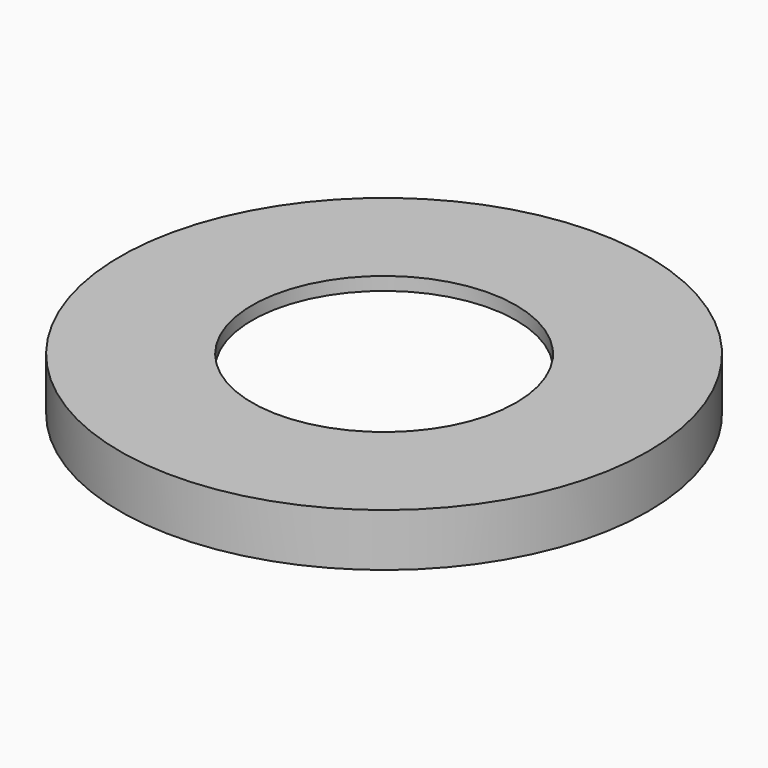
from build123d import *

# Parameters (mm, degrees)
F0_R     = 50
F1_DEPTH = 10
F2_T     = -2.5
F3_R     = 25
F4_DEPTH = 25


with BuildPart() as f1:
    # F0 (on Top) → F1 (new body)
    with BuildSketch(Plane.XY):
        Circle(F0_R)
    extrude(amount=F1_DEPTH)

    # F2
    f2_openings = [f1.faces().sort_by_distance(p)[0] for p in [
        (0, 0, 0),
    ]]
    offset(amount=F2_T, openings=f2_openings)

    # F3 (on face) → F4 (cut)
    with BuildSketch(Plane.XY.offset(10)):
        Circle(F3_R)
    extrude(amount=-F4_DEPTH, mode=Mode.SUBTRACT)


solid = f1.part
